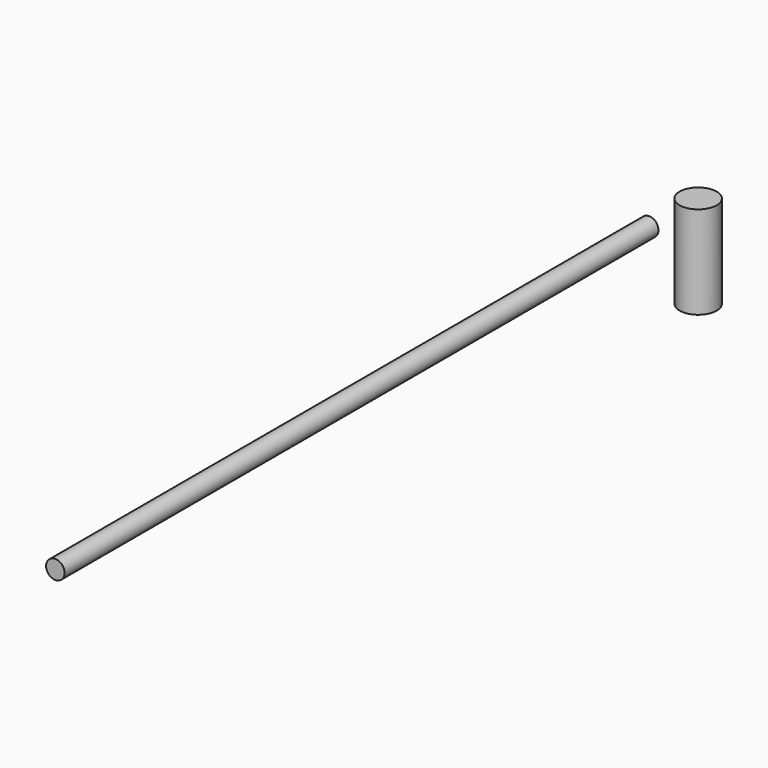
from build123d import *

# Parameters (mm, degrees)
F0_R     = 2.5
F1_DEPTH = 200
F2_R     = 5
F3_DEPTH = 25


with BuildPart() as f1:
    # F0 (on Front) → F1 (new body)
    with BuildSketch(Plane.XZ):
        Circle(F0_R)
    extrude(amount=F1_DEPTH)


with BuildPart() as f3:
    # F2 (on Top) → F3 (new body)
    with BuildSketch(Plane.XY):
        with Locations((0, 16.499668)):
            Circle(F2_R)
    extrude(amount=-F3_DEPTH)


solid = Compound([f1.part, f3.part])
